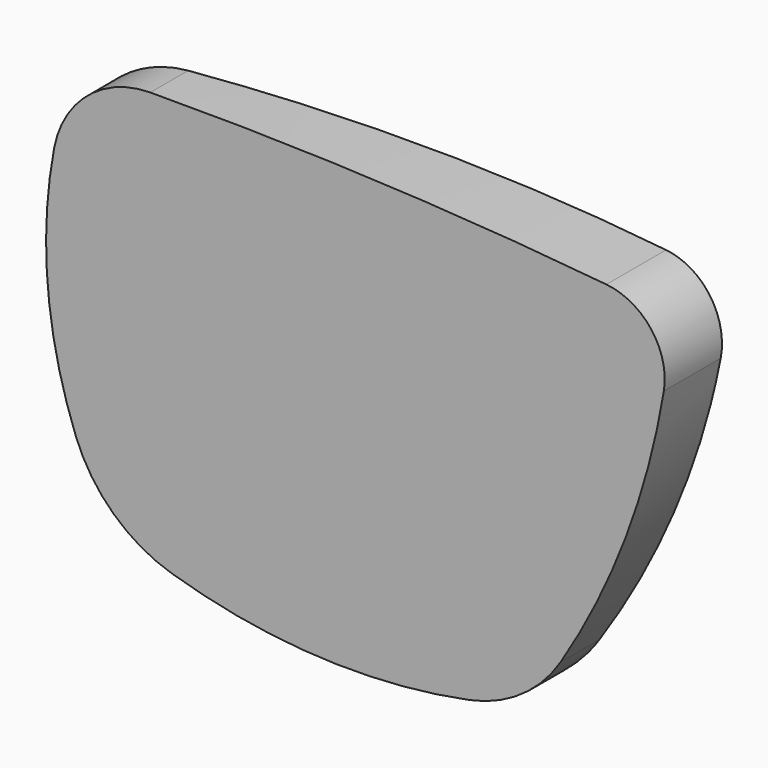
from build123d import *

# Parameters (mm, degrees)
F1_DEPTH      = 25
F4_ANGLE_BACK = 15
F4_ANGLE      = 30


with BuildPart() as f1:
    # F0 (on Front) → F1 (new body)
    with BuildSketch(Plane.XZ):
        with BuildLine():
            ThreePointArc((26.3431364877, 8.5707053028), (25.1879544986, 13.2060879092), (21.0133194591, 15.5285089783))
            ThreePointArc((21.0133194591, 15.5285089783), (-0.0894086287, 17.0460813995), (-21.2428583947, 17.4457334904))
            ThreePointArc((-21.2428583947, 17.4457334904), (-27.0252643869, 15.3277245971), (-30.1521339791, 10.0225509634))
            ThreePointArc((-30.1521339791, 10.0225509634), (-30.737948683, -1.5598670025), (-28.1338702514, -12.8609448416))
            ThreePointArc((-28.1338702514, -12.8609448416), (-24.6579753008, -18.0246958087), (-19.2665178824, -21.1357015406))
            ThreePointArc((-19.2665178824, -21.1357015406), (-5.5690318774, -23.5254263951), (8.2977543738, -22.503591381))
            ThreePointArc((8.2977543738, -22.503591381), (13.1377213939, -20.4559972218), (16.7715565718, -16.6595298512))
            ThreePointArc((16.7715565718, -16.6595298512), (22.8064529235, -4.5182850542), (26.3431364877, 8.5707053028))
        make_face()
    extrude(amount=-F1_DEPTH)


with BuildPart() as f4:
    # F3 (on offset) → F4 (revolve)
    with BuildSketch(Plane.XY.offset(22), mode=Mode.PRIVATE) as f4_sk:
        with BuildLine():
            Line((-282, -293), (318, -293))
            ThreePointArc((318, -293), (18, 7), (-282, -293))
        make_face()
    revolve(f4_sk.sketch.rotate(Axis((18, -293, 22), (1, 0, 0)), -F4_ANGLE_BACK), axis=Axis((18, -293, 22), (1, 0, 0)), revolution_arc=F4_ANGLE)


with BuildPart() as f1_1:
    add(f1.part)

    # F5: intersect F4
    add(f4.part, mode=Mode.INTERSECT)


solid = f1_1.part
